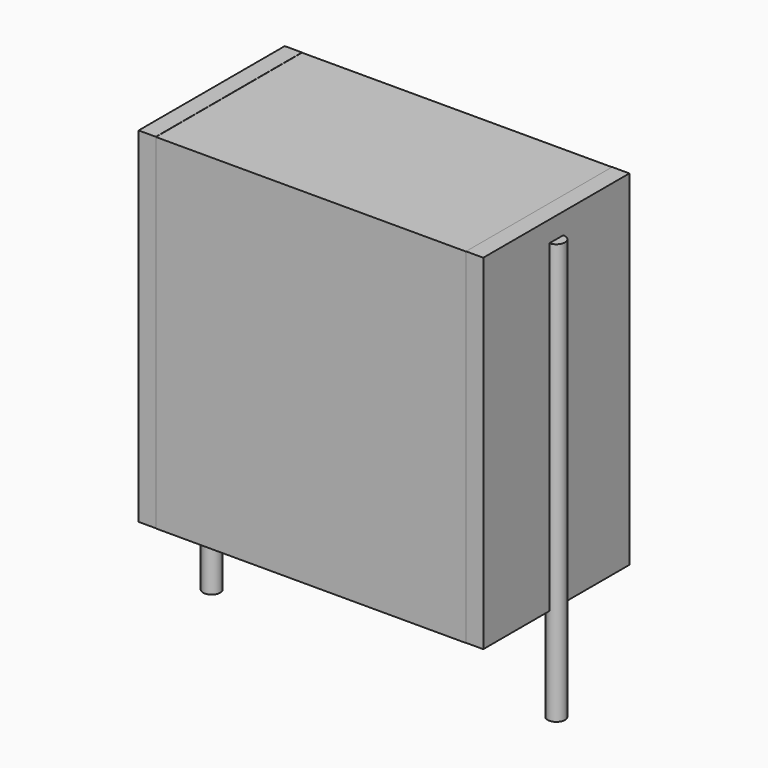
from build123d import *

# Parameters (mm, degrees)
SKETCH_W          = 9
SKETCH_H          = 5.3
PAD_DEPTH         = 10
SKETCH001_R       = 0.25
PAD001_DEPTH      = 9
PAD001_DEPTH_BACK = 3.2
SKETCH002_W       = 0.5
SKETCH002_H       = 5.3
PAD002_DEPTH      = 10


with BuildPart() as pad:
    # Sketch → Pad (new body)
    with BuildSketch(Plane.XY.offset(0.1)):
        with Locations((5, 0)):
            Rectangle(SKETCH_W, SKETCH_H)
    extrude(amount=PAD_DEPTH)


with BuildPart() as pad001:
    # Sketch001 → Pad001 (new body, two sides)
    with BuildSketch(Plane.XY.offset(0.5)) as pad001_sk:
        Circle(SKETCH001_R)
        with Locations((10, 0)):
            Circle(SKETCH001_R)
    extrude(amount=PAD001_DEPTH)
    extrude(pad001_sk.sketch, amount=-PAD001_DEPTH_BACK)


with BuildPart() as pad002:
    # Sketch002 → Pad002 (new body)
    with BuildSketch(Plane.XY.offset(0.105)):
        with Locations((0.25, 0)):
            Rectangle(SKETCH002_W, SKETCH002_H)
        with Locations((9.75, 0)):
            Rectangle(SKETCH002_W, SKETCH002_H)
    extrude(amount=PAD002_DEPTH)


solid = Compound([pad.part, pad001.part, pad002.part])
